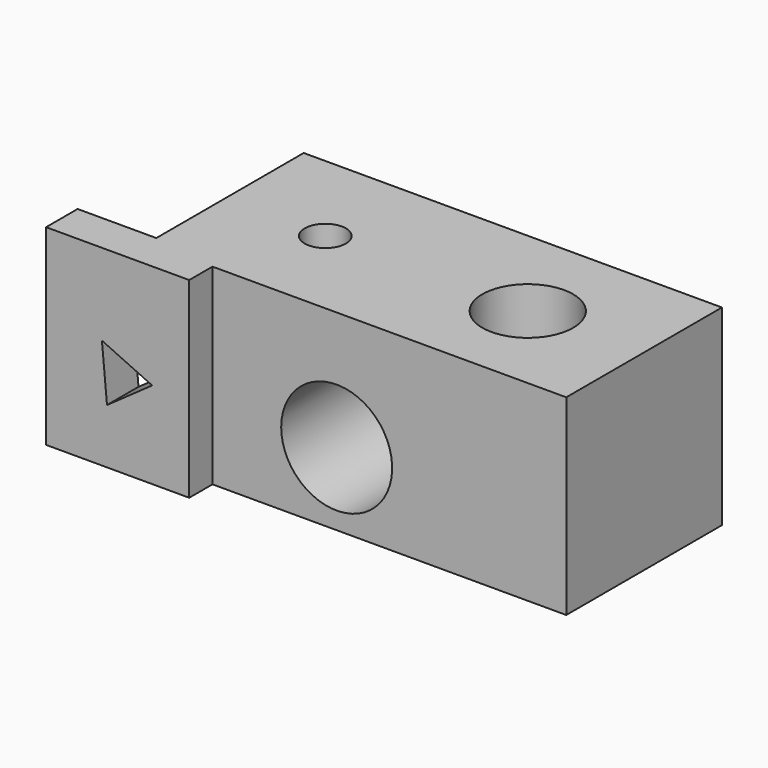
from build123d import *

# Parameters (mm, degrees)
F0_R     = 8.190345508
F0_R_2   = 18.0615768445
F0_W     = 25.6181135774
F0_H     = 4.1002519429
F1_DEPTH = 76.2
F3_DEPTH = 88.9068820903
F4_R     = 22.0566851371
F5_DEPTH = 88.9068820903


with BuildPart() as f1:
    # F0 (on Top) → F1 (new body)
    with BuildSketch(Plane.XY):
        Polygon((91.2738516927, 35.1657494903), (-74.9807953835, 35.1657494903), (-74.9807953835, -38.0775630474), (-49.3626818061, -38.0775630474), (-49.3626818061, -42.1778149903), (91.2738516927, -42.1778149903), align=None)
        with Locations((-34.8990187049, -4.2046573944)):
            Circle(F0_R, mode=Mode.SUBTRACT)
        with Locations((45.6959344447, -4.3521164916)):
            Circle(F0_R_2, mode=Mode.SUBTRACT)
        Polygon((-74.9807953835, -42.1778149903), (-74.9807953835, -38.0775630474), (-106.267772615, -38.0775630474), (-106.267772615, -53.7401326001), (-49.3626818061, -53.7401326001), (-49.3626818061, -42.1778149903), align=None)
        with Locations((-62.1717385948, -40.1276890188)):
            Rectangle(F0_W, F0_H)
    extrude(amount=F1_DEPTH)

    # F2 (on face) → F3 (cut, through all)
    with BuildSketch(Plane.XZ.offset(53.7401326001)):
        Polygon((-64.0935031806, 34.5261069518), (-84.0708138313, 43.7335528065), (-82.05604052, 21.8289713563), align=None)
    extrude(amount=-F3_DEPTH, mode=Mode.SUBTRACT)

    # F4 (on face) → F5 (cut, through all)
    with BuildSketch(Plane(origin=(0, 35.1657494903, 0), x_dir=(-1, 0, 0), z_dir=(0, 1, 0))):
        with Locations((0, 28.9242751896)):
            Circle(F4_R)
    extrude(amount=-F5_DEPTH, mode=Mode.SUBTRACT)


solid = f1.part
